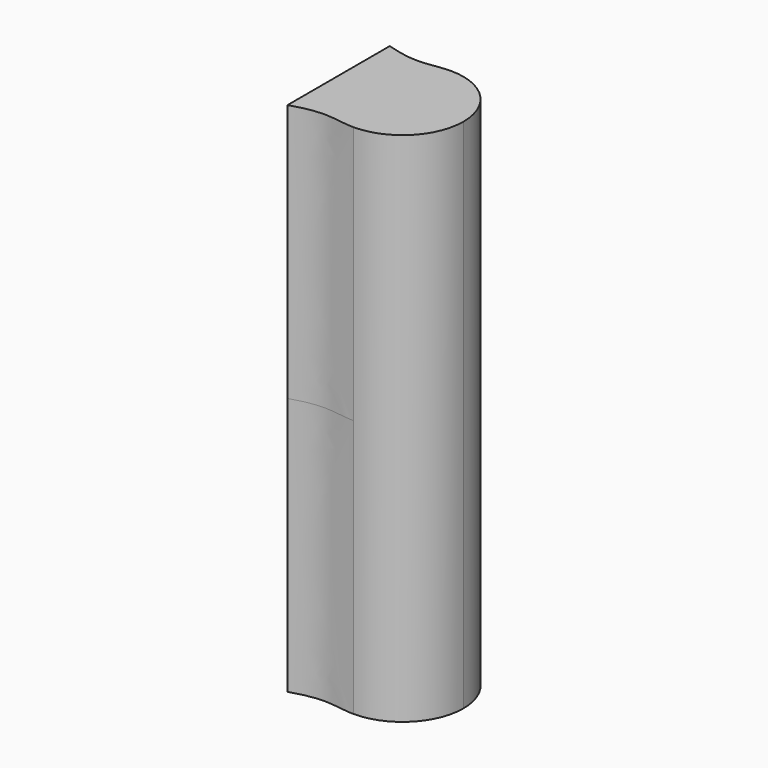
from build123d import *

# Parameters (mm, degrees)
F1_DEPTH = 22.25


with BuildPart() as f1:
    # F0 (on Top) → F1 (new body, symmetric)
    with BuildSketch(Plane.XY):
        with BuildLine():
            Line((-5.5, 5.5), (-5.5, 0))
            Line((-5.5, 0), (-5.5, -5.5))
            add(Edge.make_bspline(
                [(-5.5, -5.5), (-4.680942, -5.252308), (-2.740618, -4.748842), (-0.883938, -5.25), (0, -5.25)],
                knots=[0, 0, 0, 0, 2.795085, 5.556425, 5.556425, 5.556425, 5.556425], degree=3))
            ThreePointArc((0, -5.25), (3.712311, -3.712311), (5.25, 0))
            ThreePointArc((5.25, 0), (3.712311, 3.712311), (0, 5.25))
            add(Edge.make_bspline(
                [(-5.5, 5.5), (-4.680942, 5.252308), (-2.740618, 4.748842), (-0.883938, 5.25), (0, 5.25)],
                knots=[0, 0, 0, 0, 2.795085, 5.556425, 5.556425, 5.556425, 5.556425], degree=3))
        make_face()
    extrude(amount=F1_DEPTH, both=True)


solid = f1.part
